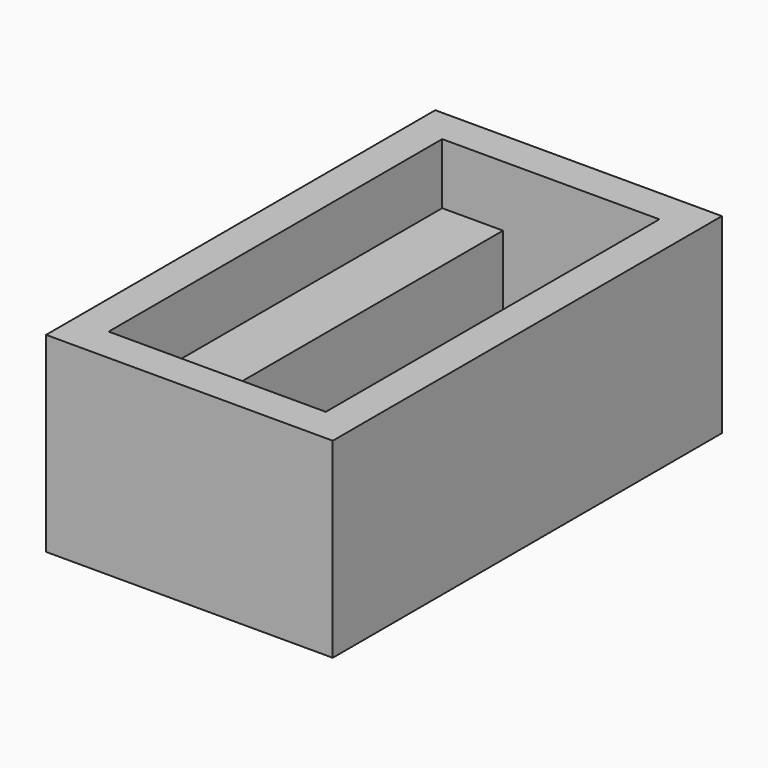
from build123d import *

# Parameters (mm, degrees)
BOX014_W                   = 5.5
BOX014_H                   = 24
BOX014_DEPTH               = 8
BOX016_W                   = 12.5
BOX016_H                   = 24
BOX016_DEPTH               = 4
PAD009_DEPTH               = 1.1
CHAMFER001_SIZE            = 1
CHAMFER001_PLACEMENT_ANGLE = 180
BOX015_W                   = 16.5
BOX015_H                   = 28
BOX015_DEPTH               = 11


with BuildPart() as cube014:
    # Box014 → Box014 (new body)
    with BuildSketch(Plane(origin=(3.25, -9, -0.5), x_dir=(1, 0, 0), z_dir=(0, 0, 1))):
        with Locations((2.75, 12)):
            Rectangle(BOX014_W, BOX014_H)
    extrude(amount=BOX014_DEPTH)


with BuildPart() as cube016:
    # Box016 → Box016 (new body)
    with BuildSketch(Plane(origin=(-0.25, -9, 7.5), x_dir=(1, 0, 0), z_dir=(0, 0, 1))):
        with Locations((6.25, 12)):
            Rectangle(BOX016_W, BOX016_H)
    extrude(amount=BOX016_DEPTH)


with BuildPart() as fusion010:
    # Sketch012 → Pad009 (new body)
    with BuildSketch(Plane.XY):
        Polygon((0, 20.777284), (-2.180816, 17), (2.180816, 17), align=None)
    extrude(amount=PAD009_DEPTH)

    # Chamfer001
    chamfer001_edges = [fusion010.edges().sort_by_distance(p)[0] for p in [
        (-1.090408, 18.888642, 0),
        (0, 17, 0),
        (1.090408, 18.888642, 0),
    ]]
    chamfer(chamfer001_edges, length=CHAMFER001_SIZE)


with BuildPart() as fusion010_1:
    # Chamfer001 placement: moved
    add(fusion010.part.moved(Location((0.5, -4.5, 0.9))).rotate(Axis((0.5, -4.5, 0.9), (0, 1, 0)), CHAMFER001_PLACEMENT_ANGLE))

    # Fusion010: union Cube014, Cube016
    add(cube014.part)
    add(cube016.part)


with BuildPart() as obj1:
    # Box015 → Box015 (new body)
    with BuildSketch(Plane(origin=(-2.25, -11, 0), x_dir=(1, 0, 0), z_dir=(0, 0, 1))):
        with Locations((8.25, 14)):
            Rectangle(BOX015_W, BOX015_H)
    extrude(amount=BOX015_DEPTH)

    # Cut021: cut Fusion010
    add(fusion010_1.part, mode=Mode.SUBTRACT)


solid = obj1.part
